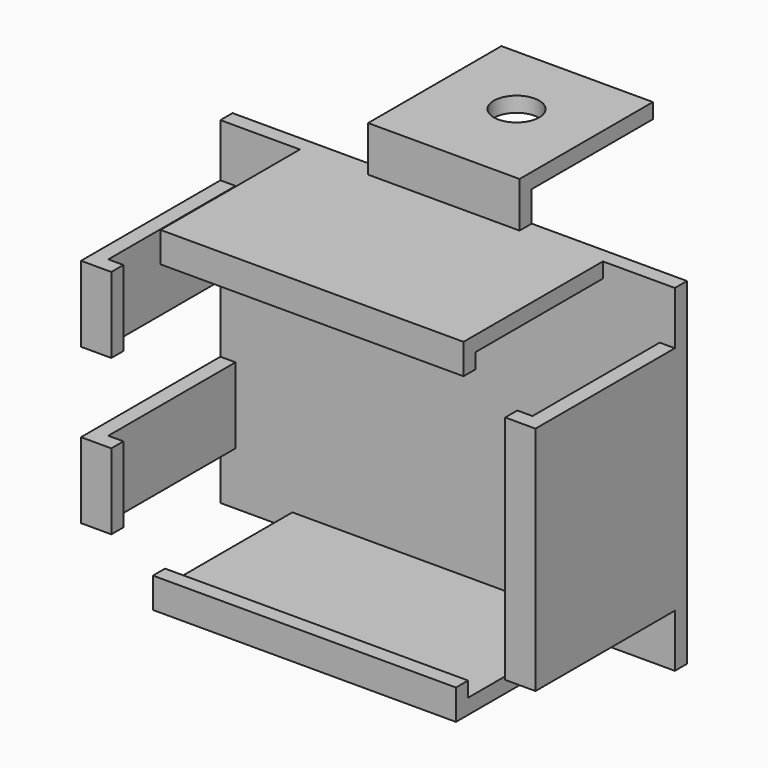
from build123d import *

# Parameters (mm, degrees)
F0_W      = 60
F0_H      = 44.5
F1_DEPTH  = 2
F2_W      = 40
F2_H      = 2
F2_W_2    = 2
F2_H_2    = 30.5
F2_H_3    = 10
F3_DEPTH  = 23
F4_W      = 40
F4_H      = 2
F5_DEPTH  = 4
F6_W      = 2
F6_H      = 10
F7_DEPTH  = 4
F8_W      = 40
F8_H      = 2
F9_DEPTH  = 4
F10_W     = 2
F10_H     = 30.5
F11_DEPTH = 4
F12_W     = 20
F12_H     = 2
F13_DEPTH = 6
F14_W     = 20
F14_H     = 2
F15_DEPTH = 22
F16_R     = 3
F17_DEPTH = 3


with BuildPart() as f1:
    # F0 (on Front) → F1 (new body)
    with BuildSketch(Plane.XZ):
        with Locations((-9.224907, -1.08871)):
            Rectangle(F0_W, F0_H)
    extrude(amount=F1_DEPTH)

    # F2 (on face) → F3 (join)
    with BuildSketch(Plane.XZ.offset(2)):
        with Locations((-8.724907, 20.16129)):
            Rectangle(F2_W, F2_H)
        with Locations((-9.724907, -22.33871)):
            Rectangle(F2_W, F2_H)
        with Locations((19.775093, -1.08871)):
            Rectangle(F2_W_2, F2_H_2)
        with Locations((-38.224907, 9.16129)):
            Rectangle(F2_W_2, F2_H_3)
        with Locations((-38.224907, -11.33871)):
            Rectangle(F2_W_2, F2_H_3)
    extrude(amount=F3_DEPTH)

    # F4 (on face) → F5 (join)
    with BuildSketch(Plane(origin=(0, 0, -23.33871), x_dir=(1, 0, 0), z_dir=(0, 0, -1))):
        with Locations((-9.724907, 24)):
            Rectangle(F4_W, F4_H)
    extrude(amount=-F5_DEPTH)

    # F6 (on face) → F7 (join)
    with BuildSketch(Plane(origin=(-39.224907, 0, 0), x_dir=(0, -1, 0), z_dir=(-1, 0, 0))):
        with Locations((24, 9.16129)):
            Rectangle(F6_W, F6_H)
        with Locations((24, -11.33871)):
            Rectangle(F6_W, F6_H)
    extrude(amount=-F7_DEPTH)

    # F8 (on face) → F9 (join)
    with BuildSketch(Plane.XY.offset(21.16129)):
        with Locations((-8.724907, -24)):
            Rectangle(F8_W, F8_H)
    extrude(amount=-F9_DEPTH)

    # F10 (on face) → F11 (join)
    with BuildSketch(Plane.YZ.offset(20.775093)):
        with Locations((-24, -1.08871)):
            Rectangle(F10_W, F10_H)
    extrude(amount=-F11_DEPTH)

    # F12 (on face) → F13 (join)
    with BuildSketch(Plane.XY.offset(21.16129)):
        with Locations((-9.724907, -1)):
            Rectangle(F12_W, F12_H)
    extrude(amount=F13_DEPTH)

    # F14 (on face) → F15 (join)
    with BuildSketch(Plane.XZ.offset(2)):
        with Locations((-9.724907, 26.16129)):
            Rectangle(F14_W, F14_H)
    extrude(amount=-F15_DEPTH)

    # F16 (on face) → F17 (cut)
    with BuildSketch(Plane(origin=(0, 0, 25.16129), x_dir=(1, 0, 0), z_dir=(0, 0, -1))):
        with Locations((-9.724907, -10)):
            Circle(F16_R)
    extrude(amount=-F17_DEPTH, mode=Mode.SUBTRACT)


solid = f1.part
